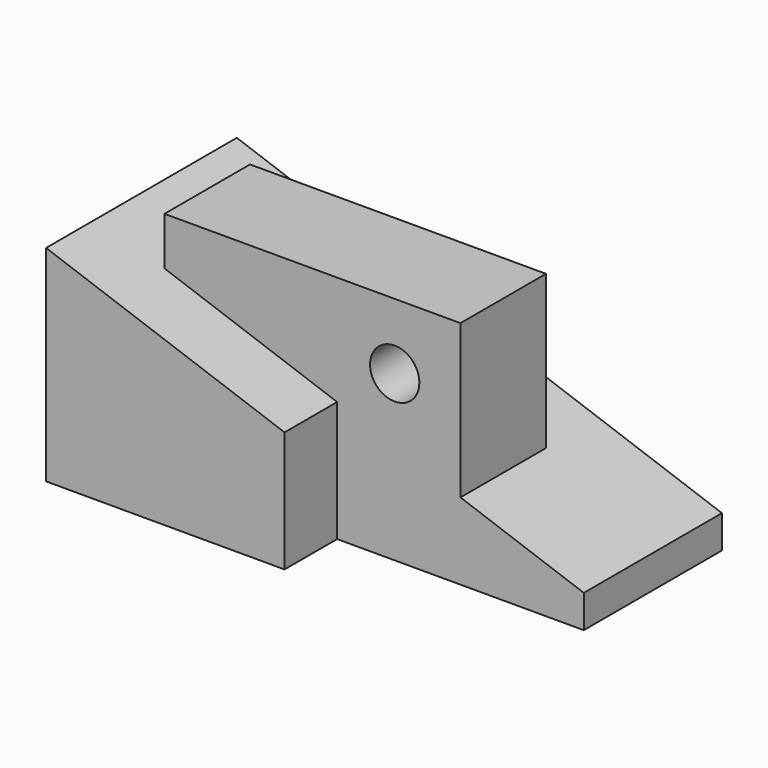
from build123d import *

# Parameters (mm, degrees)
F1_DEPTH = 58
F3_W     = 72
F3_H     = 26
F5_W     = 60
F5_H     = 16
F6_DEPTH = 56.001
F7_R     = 6
F8_DEPTH = 42.001


with BuildPart() as f1:
    # F0 (on Front) → F1 (new body)
    with BuildSketch(Plane.XZ):
        Polygon((0, 50), (0, 0), (118, 0), (118, 8), align=None)
    extrude(amount=F1_DEPTH)

    # F3 (on offset) → F4 (join, up to the next surface of F1)
    with BuildSketch(Plane.XY.offset(56)):
        with Locations((52, -29)):
            Rectangle(F3_W, F3_H)
    extrude(until=Until.NEXT, dir=(0, 0, -1))

    # F5 (on offset) → F6 (cut, through all)
    with BuildSketch(Plane.XY.offset(56)):
        with Locations((88, -50)):
            Rectangle(F5_W, F5_H)
    extrude(amount=-F6_DEPTH, mode=Mode.SUBTRACT)

    # F7 (on face) → F8 (cut, through all)
    with BuildSketch(Plane.XZ.offset(42)):
        with Locations((72, 40)):
            Circle(F7_R)
    extrude(amount=-F8_DEPTH, mode=Mode.SUBTRACT)


solid = f1.part
